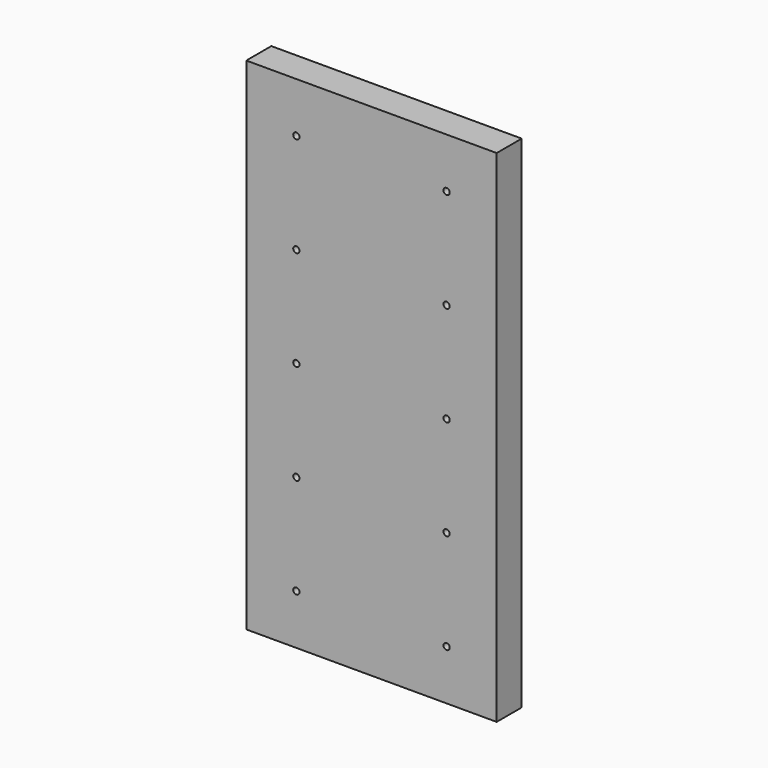
from build123d import *

# Parameters (mm, degrees)
F0_W     = 200
F0_H     = 400
F0_R     = 2.5
F1_DEPTH = 25


with BuildPart() as f1:
    # F0 (on Front) → F1 (new body)
    with BuildSketch(Plane.XZ):
        with Locations((10.991533, 30.887218)):
            Rectangle(F0_W, F0_H)
        with Locations((-49.008467, -129.112782)):
            Circle(F0_R, mode=Mode.SUBTRACT)
        with Locations((-49.008467, -49.112782)):
            Circle(F0_R, mode=Mode.SUBTRACT)
        with Locations((70.991533, -129.112782)):
            Circle(F0_R, mode=Mode.SUBTRACT)
        with Locations((70.991533, -49.112782)):
            Circle(F0_R, mode=Mode.SUBTRACT)
        with Locations((-49.008467, 30.887218)):
            Circle(F0_R, mode=Mode.SUBTRACT)
        with Locations((-49.008467, 110.887218)):
            Circle(F0_R, mode=Mode.SUBTRACT)
        with Locations((-49.008467, 190.887218)):
            Circle(F0_R, mode=Mode.SUBTRACT)
        with Locations((70.991533, 30.887218)):
            Circle(F0_R, mode=Mode.SUBTRACT)
        with Locations((70.991533, 110.887218)):
            Circle(F0_R, mode=Mode.SUBTRACT)
        with Locations((70.991533, 190.887218)):
            Circle(F0_R, mode=Mode.SUBTRACT)
    extrude(amount=F1_DEPTH)


solid = f1.part
